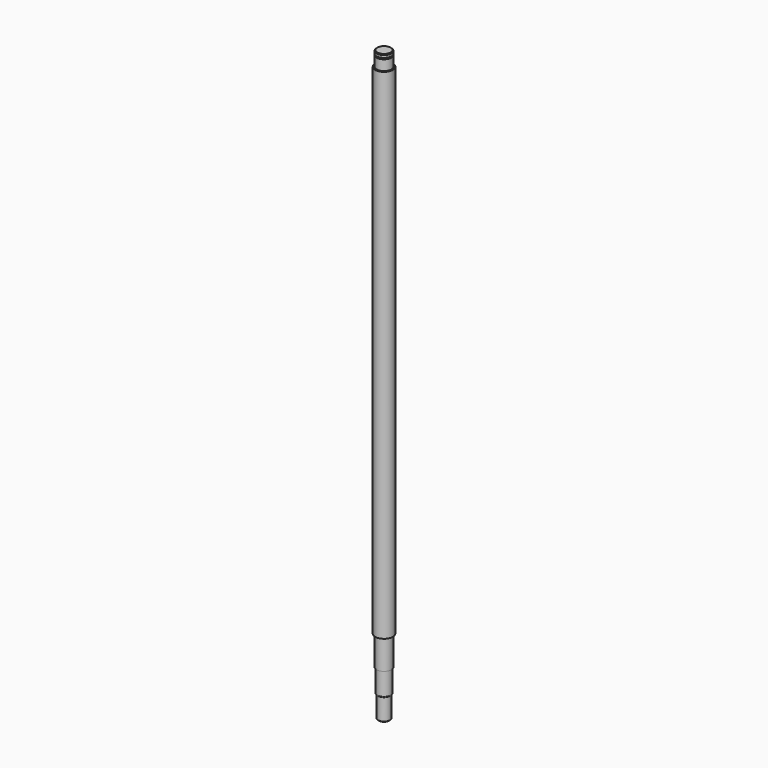
from build123d import *


with BuildPart() as f1:
    # F0 (on Front) → F1 (revolve)
    with BuildSketch(Plane.XZ):
        Polygon((0, 400), (0, 0), (3.5, 0), (4, 0.5), (4, 15), (4.5, 15.5), (4.5, 31), (5, 31), (5, 51), (6, 51), (6, 390), (5, 390), (5, 397), (3.8, 397), (3.8, 397.9), (5, 397.9), (5, 399.5), (4.5, 400), align=None)
    revolve(axis=Axis((0, 0, 142.919585), (0, 0, 1)))


solid = f1.part
